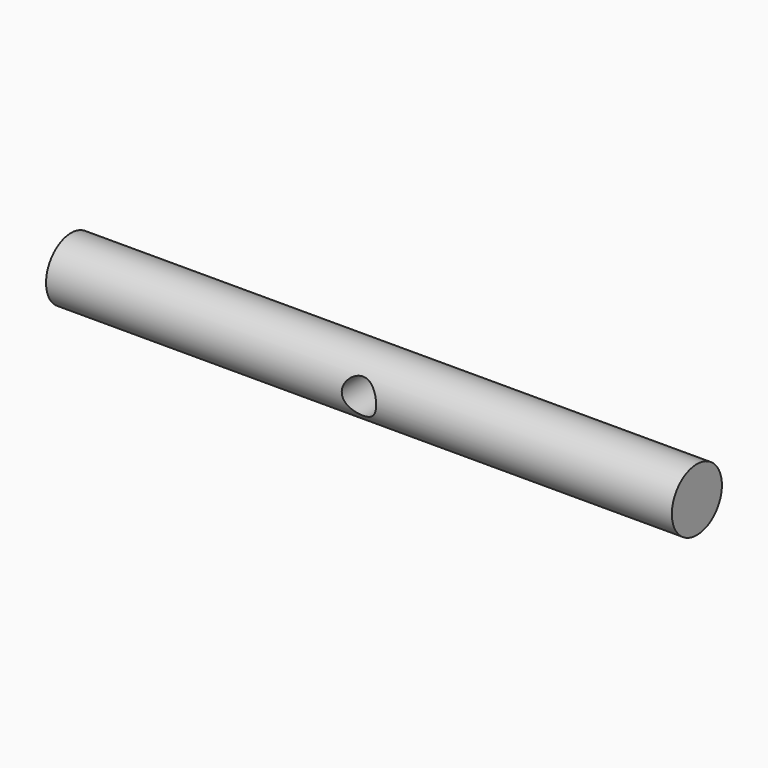
from build123d import *

# Parameters (mm, degrees)
F0_R          = 5
F1_DEPTH      = 100
F2_R          = 2.75
F3_DEPTH      = 5.001
F3_DEPTH_BACK = 25


with BuildPart() as f1:
    # F0 (on Right) → F1 (new body)
    with BuildSketch(Plane.YZ):
        Circle(F0_R)
    extrude(amount=F1_DEPTH)

    # F2 (on Front) → F3 (cut, two sides)
    with BuildSketch(Plane.XZ) as f3_sk:
        with Locations((50, 0)):
            Circle(F2_R)
    extrude(amount=-F3_DEPTH, mode=Mode.SUBTRACT)
    extrude(f3_sk.sketch, amount=F3_DEPTH_BACK, mode=Mode.SUBTRACT)


solid = f1.part
